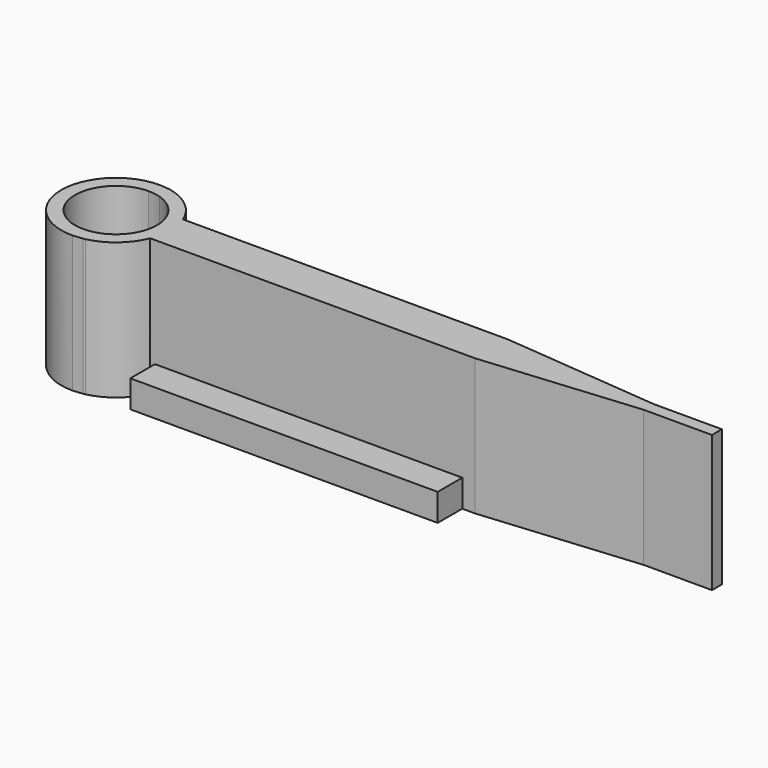
from build123d import *

# Parameters (mm, degrees)
F1_DEPTH = 5.08
F2_DEPTH = 5.0292
F3_W     = 11.43
F3_H     = 3.81
F4_DEPTH = 1.016


with BuildPart() as f1:
    # F0 (on Top) → F1 (new body)
    with BuildSketch(Plane.XY):
        with BuildLine():
            ThreePointArc((1.524, 0), (1.4720709593, -0.3944402247), (1.3198227154, -0.762))
            Line((1.3198227154, -0.762), (1.8837144157, -0.762))
            ThreePointArc((1.8837144157, -0.762), (1.9945841287, -0.3881470773), (2.032, 0))
            Line((2.032, 0), (1.524, 0))
        make_face()
        with BuildLine():
            Line((1.8837144157, 0.762), (1.3198227154, 0.762))
            ThreePointArc((1.3198227154, 0.762), (1.4720709593, 0.3944402247), (1.524, 0))
            Line((1.524, 0), (2.032, 0))
            ThreePointArc((2.032, 0), (1.9945841287, 0.3881470773), (1.8837144157, 0.762))
        make_face()
        Polygon((19.812, 0.2309090909), (13.97, 0.762), (13.97, 0), (19.812, 0), align=None)
        Polygon((13.97, 0), (13.97, -0.762), (19.812, -0.2309090909), (19.812, 0), align=None)
        Polygon((22.352, 0), (19.812, 0.2309090909), (19.812, 0), align=None)
        Polygon((19.812, 0), (19.812, -0.2309090909), (22.352, 0), align=None)
        with BuildLine():
            ThreePointArc((0, -1.524), (-1.524, 0), (0, 1.524))
            Line((0, 1.524), (0, 2.032))
            ThreePointArc((0, 2.032), (-2.032, 0), (0, -2.032))
            Line((0, -2.032), (0, -1.524))
        make_face()
        with BuildLine():
            ThreePointArc((0.4517456439, -1.4555074281), (0.2284542401, -1.5067795659), (0, -1.524))
            Line((0, -1.524), (0, -2.032))
            Line((0, -2.032), (0.3664262295, -1.9986885246))
            ThreePointArc((0.3664262295, -1.9986885246), (0.4091799306, -1.9903757897), (0.4517456439, -1.9811486247))
            Line((0.4517456439, -1.9811486247), (0.4517456439, -1.4555074281))
        make_face()
        with BuildLine():
            Line((0, 2.032), (0, 1.524))
            ThreePointArc((0, 1.524), (0.2284542401, 1.5067795659), (0.4517456439, 1.4555074281))
            Line((0.4517456439, 1.4555074281), (0.4517456439, 1.9811486247))
            ThreePointArc((0.4517456439, 1.9811486247), (0.4091799306, 1.9903757897), (0.3664262295, 1.9986885246))
            Line((0.3664262295, 1.9986885246), (0, 2.032))
        make_face()
        with BuildLine():
            Line((0.4517456439, 1.9811486247), (0.4517456439, 1.4555074281))
            ThreePointArc((0.4517456439, 1.4555074281), (0.9512369584, 1.1906822619), (1.3198227154, 0.762))
            Line((1.3198227154, 0.762), (1.8837144157, 0.762))
            ThreePointArc((1.8837144157, 0.762), (1.3172601356, 1.5472070757), (0.4517456439, 1.9811486247))
        make_face()
        with BuildLine():
            ThreePointArc((1.3198227154, -0.762), (0.9512369584, -1.1906822619), (0.4517456439, -1.4555074281))
            Line((0.4517456439, -1.4555074281), (0.4517456439, -1.9811486247))
            ThreePointArc((0.4517456439, -1.9811486247), (1.3172601356, -1.5472070757), (1.8837144157, -0.762))
            Line((1.8837144157, -0.762), (1.3198227154, -0.762))
        make_face()
        with BuildLine():
            ThreePointArc((0, -1.524), (-1.524, 0), (0, 1.524))
            Line((0, 1.524), (0, 2.032))
            ThreePointArc((0, 2.032), (-2.032, 0), (0, -2.032))
            Line((0, -2.032), (0, -1.524))
        make_face()
        with BuildLine():
            Line((13.97, 0.762), (1.8837144157, 0.762))
            ThreePointArc((1.8837144157, 0.762), (1.9945841287, 0.3881470773), (2.032, 0))
            Line((2.032, 0), (13.97, 0))
            Line((13.97, 0), (13.97, 0.762))
        make_face()
        with BuildLine():
            ThreePointArc((2.032, 0), (1.9945841287, -0.3881470773), (1.8837144157, -0.762))
            Line((1.8837144157, -0.762), (13.97, -0.762))
            Line((13.97, -0.762), (13.97, 0))
            Line((13.97, 0), (2.032, 0))
        make_face()
        Polygon((19.812, 0), (19.812, -0.2309090909), (22.352, 0), align=None)
        Polygon((22.352, 0), (19.812, 0.2309090909), (19.812, 0), align=None)
        Polygon((22.352, 0.2309090909), (19.812, 0.2309090909), (22.352, 0), align=None)
        Polygon((22.352, 0), (19.812, -0.2309090909), (22.352, -0.2309090909), align=None)
    extrude(amount=F1_DEPTH)

    # F0 (on Top) → F2 (join)
    with BuildSketch(Plane.XY):
        with BuildLine():
            ThreePointArc((1.524, 0), (1.4720709593, -0.3944402247), (1.3198227154, -0.762))
            Line((1.3198227154, -0.762), (1.8837144157, -0.762))
            ThreePointArc((1.8837144157, -0.762), (1.9945841287, -0.3881470773), (2.032, 0))
            Line((2.032, 0), (1.524, 0))
        make_face()
        with BuildLine():
            Line((0, 2.032), (0, 1.524))
            ThreePointArc((0, 1.524), (0.2284542401, 1.5067795659), (0.4517456439, 1.4555074281))
            Line((0.4517456439, 1.4555074281), (0.4517456439, 1.9811486247))
            ThreePointArc((0.4517456439, 1.9811486247), (0.4091799306, 1.9903757897), (0.3664262295, 1.9986885246))
            Line((0.3664262295, 1.9986885246), (0, 2.032))
        make_face()
        with BuildLine():
            ThreePointArc((0, -1.524), (-1.524, 0), (0, 1.524))
            Line((0, 1.524), (0, 2.032))
            ThreePointArc((0, 2.032), (-2.032, 0), (0, -2.032))
            Line((0, -2.032), (0, -1.524))
        make_face()
    extrude(amount=F2_DEPTH)

    # F3 (on Top) → F4 (join)
    with BuildSketch(Plane.XY):
        with Locations((7.7741611749, 0)):
            Rectangle(F3_W, F3_H)
    extrude(amount=F4_DEPTH)


solid = f1.part
